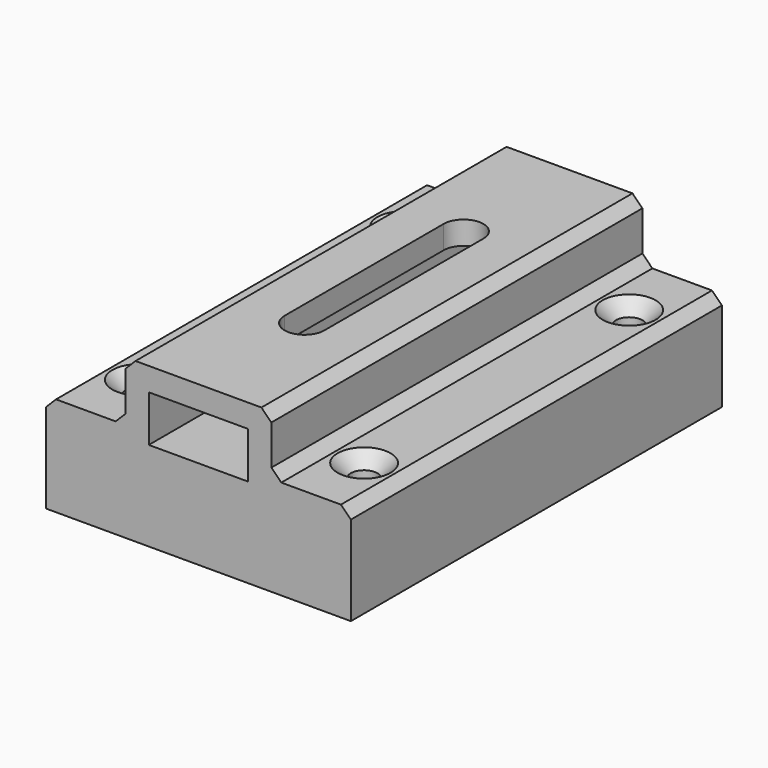
from build123d import *

# Parameters (mm, degrees)
F0_W           = 15
F0_H           = 7
F1_DEPTH       = 35
F3_DEPTH       = 3.5
F4_SIZE        = 1.5
F6_D           = 4
F6_CSINK_D     = 8
F6_CSINK_ANGLE = 90


with BuildPart() as f1:
    # F0 (on Front) → F1 (new body, symmetric)
    with BuildSketch(Plane.XZ):
        Polygon((-23, 15), (-23, 0), (23, 0), (23, 15), (11, 15), (11, 24), (-11, 24), (-11, 15), align=None)
        with Locations((0, 17)):
            Rectangle(F0_W, F0_H, mode=Mode.SUBTRACT)
    extrude(amount=F1_DEPTH, both=True)

    # F2 (on face) → F3 (cut, through all)
    with BuildSketch(Plane.XY.offset(24)):
        with BuildLine():
            ThreePointArc((3, 15), (0, 18), (-3, 15))
            Line((-3, 15), (-3, -15))
            ThreePointArc((-3, -15), (0, -18), (3, -15))
            Line((3, -15), (3, 15))
        make_face()
    extrude(amount=-F3_DEPTH, mode=Mode.SUBTRACT)

    # F4
    f4_edges = [f1.edges().sort_by_distance(p)[0] for p in [
        (-11, 0, 15),
        (11, 0, 24),
        (-11, 0, 24),
        (11, 0, 15),
        (-23, 0, 15),
        (23, 0, 15),
    ]]
    chamfer(f4_edges, length=F4_SIZE)

    # F6 (through all)
    with Locations(Plane.XY.offset(15)):
        with Locations((17, 25), (17, -25), (-17, -25), (-17, 25)):
            CounterSinkHole(F6_D / 2, F6_CSINK_D / 2, counter_sink_angle=F6_CSINK_ANGLE)


solid = f1.part
